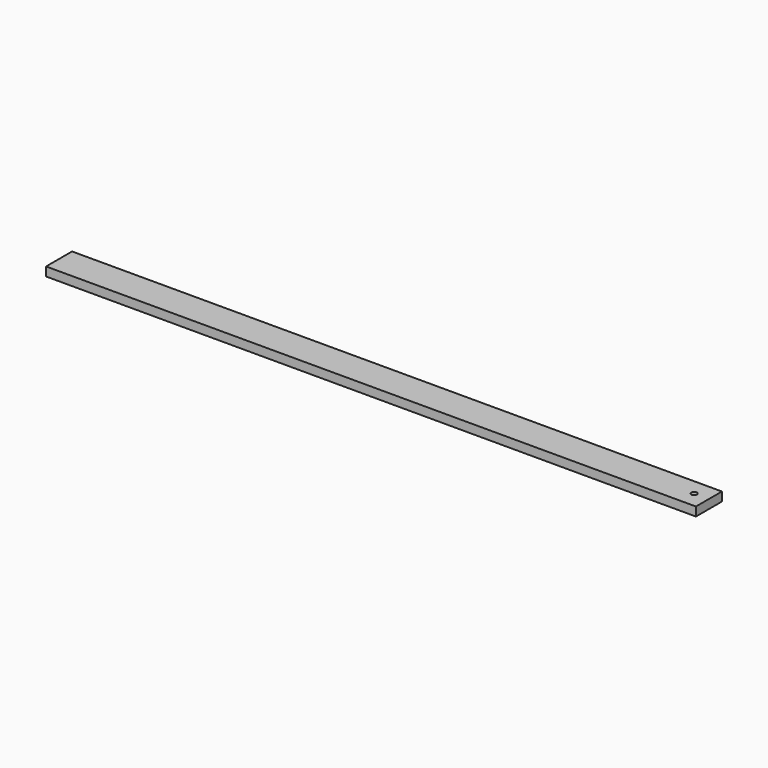
from build123d import *

# Parameters (mm, degrees)
SKETCH_W          = 2200
SKETCH_H          = 110
PAD_DEPTH         = 15
SKETCH001_R       = 9.5
POCKET_DEPTH      = 15.001
POCKET_DEPTH_BACK = -15.001


with BuildPart() as part:
    # Sketch → Pad (new body, symmetric)
    with BuildSketch(Plane.XY):
        Rectangle(SKETCH_W, SKETCH_H)
    extrude(amount=PAD_DEPTH, both=True)

    # Sketch001 → Pocket (cut, two sides)
    with BuildSketch(Plane.XY) as pocket_sk:
        with Locations((1050, 0)):
            Circle(SKETCH001_R)
    extrude(amount=-POCKET_DEPTH, mode=Mode.SUBTRACT)
    extrude(pocket_sk.sketch, amount=-POCKET_DEPTH_BACK, mode=Mode.SUBTRACT)


solid = part.part
